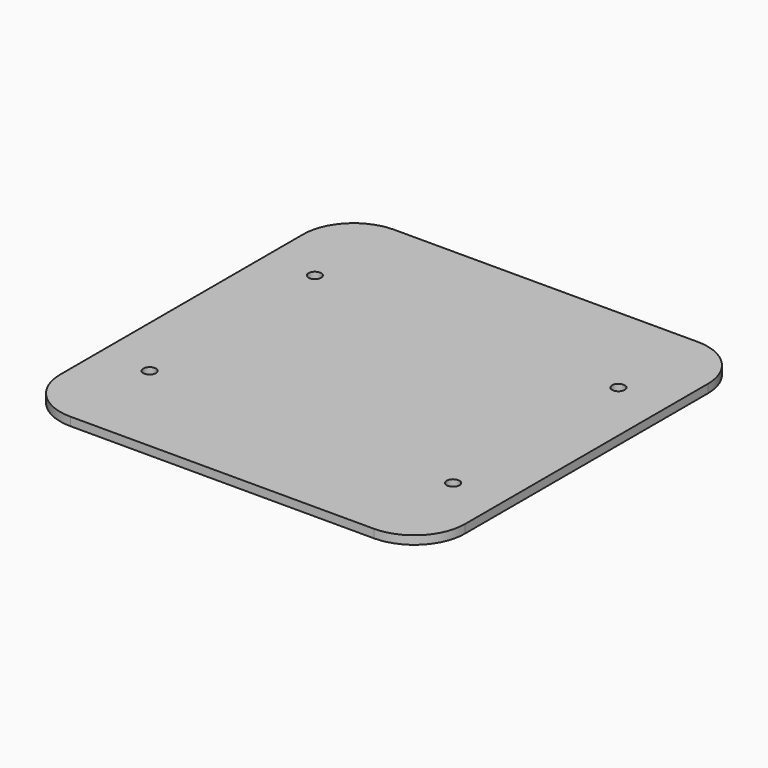
from build123d import *

# Parameters (mm, degrees)
F0_W     = 1219.2
F0_H     = 1219.2
F1_DEPTH = 25.4
F2_R     = 152.4
F3_R     = 19.05
F4_DEPTH = 25.4


with BuildPart() as f1:
    # F0 (on Top) → F1 (new body)
    with BuildSketch(Plane.XY):
        Rectangle(F0_W, F0_H)
    extrude(amount=F1_DEPTH)

    # F2
    f2_edges = [f1.edges().sort_by_distance(p)[0] for p in [
        (-609.6, -609.6, 12.7),
        (609.6, -609.6, 12.7),
        (609.6, 609.6, 12.7),
        (-609.6, 609.6, 12.7),
    ]]
    fillet(f2_edges, radius=F2_R)

    # F3 (on face) → F4 (cut)
    with BuildSketch(Plane.XY.offset(25.4)):
        with Locations((-457.2, 311.15)):
            Circle(F3_R)
        with Locations((457.2, 311.15)):
            Circle(F3_R)
        with Locations((457.2, -311.15)):
            Circle(F3_R)
        with Locations((-457.2, -311.15)):
            Circle(F3_R)
    extrude(amount=-F4_DEPTH, mode=Mode.SUBTRACT)


solid = f1.part
